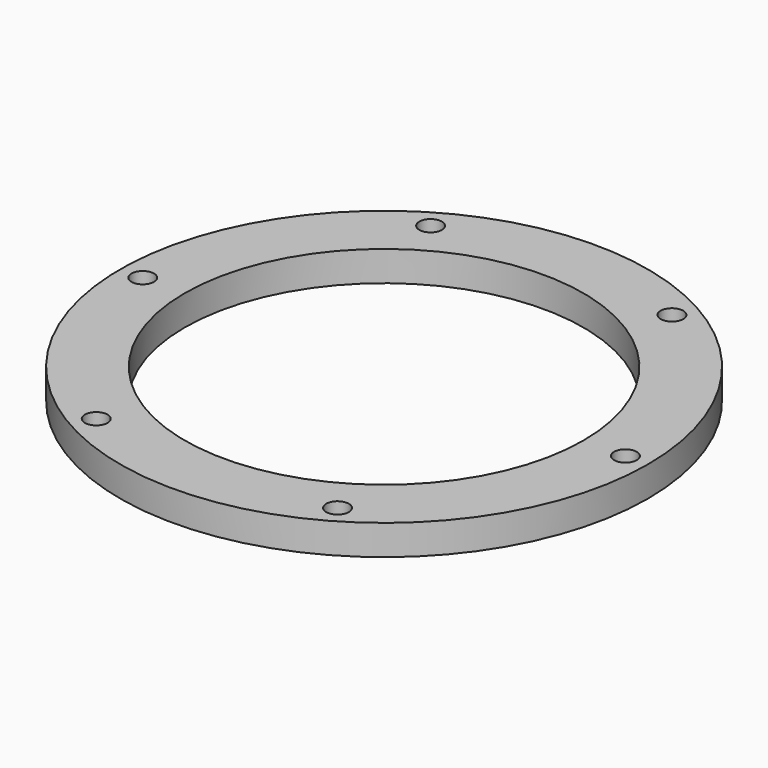
from build123d import *

# Parameters (mm, degrees)
F0_R     = 111.125
F0_R_2   = 4.7625
F0_R_3   = 83.947
F1_DEPTH = 12.7


with BuildPart() as f1:
    # F0 (on Top) → F1 (new body)
    with BuildSketch(Plane.XY):
        Circle(F0_R)
        with Locations((-50.8, -87.988181)):
            Circle(F0_R_2, mode=Mode.SUBTRACT)
        with Locations((50.8, -87.988181)):
            Circle(F0_R_2, mode=Mode.SUBTRACT)
        with Locations((-101.6, 0)):
            Circle(F0_R_2, mode=Mode.SUBTRACT)
        with Locations((-50.8, 87.988181)):
            Circle(F0_R_2, mode=Mode.SUBTRACT)
        Circle(F0_R_3, mode=Mode.SUBTRACT)
        with Locations((101.6, 0)):
            Circle(F0_R_2, mode=Mode.SUBTRACT)
        with Locations((50.8, 87.988181)):
            Circle(F0_R_2, mode=Mode.SUBTRACT)
    extrude(amount=F1_DEPTH)


solid = f1.part
